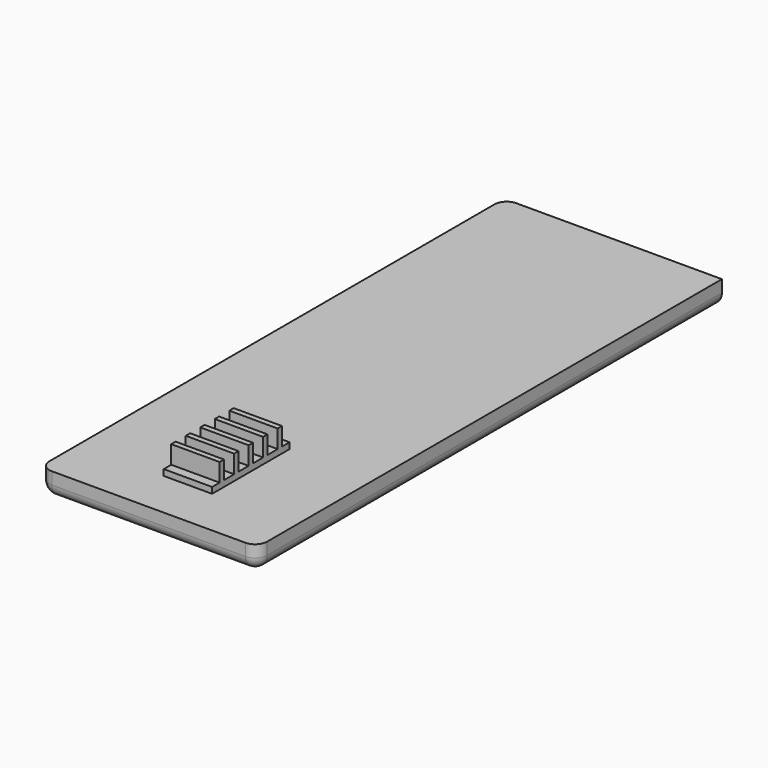
from build123d import *

# Parameters (mm, degrees)
F0_W     = 18
F0_H     = 48
F1_DEPTH = 2
F0_W_2   = 4
F0_H_2   = 0.775
F0_H_3   = 1.05
F2_DEPTH = 2.5
F0_H_4   = 0.45
F3_DEPTH = 4
F4_R     = 1


with BuildPart() as f1:
    # F0 (on Top) → F1 (new body)
    with BuildSketch(Plane.XY):
        with Locations((0, 16)):
            Rectangle(F0_W, F0_H)
        Polygon((2.04878, -3.225), (2.04878, -4), (-1.95122, -4), (-1.95122, -3.225), (-1.95122, -2.775), (-1.95122, -1.725), (-1.95122, -1.275), (-1.95122, -0.225), (-1.95122, 0), (-1.95122, 0.107463), (-1.95122, 0.225), (-1.95122, 1.275), (-1.95122, 1.725), (-1.95122, 2.775), (-1.95122, 3.225), (-1.95122, 4), (2.04878, 4), (2.04878, 3.225), (2.04878, 2.775), (2.04878, 1.725), (2.04878, 1.275), (2.04878, 0.225), (2.04878, -0.225), (2.04878, -1.275), (2.04878, -1.725), (2.04878, -2.775), align=None, mode=Mode.SUBTRACT)
    extrude(amount=F1_DEPTH)

    # F0 (on Top) → F2 (join)
    with BuildSketch(Plane.XY):
        with Locations((0.04878, -3.6125)):
            Rectangle(F0_W_2, F0_H_2)
        with Locations((0.04878, -2.25)):
            Rectangle(F0_W_2, F0_H_3)
        with Locations((0.04878, -0.75)):
            Rectangle(F0_W_2, F0_H_3)
        with Locations((0.04878, 0.75)):
            Rectangle(F0_W_2, F0_H_3)
        with Locations((0.04878, 2.25)):
            Rectangle(F0_W_2, F0_H_3)
        with Locations((0.04878, 3.6125)):
            Rectangle(F0_W_2, F0_H_2)
    extrude(amount=F2_DEPTH)

    # F0 (on Top) → F3 (join)
    with BuildSketch(Plane.XY):
        with Locations((0.04878, -3)):
            Rectangle(F0_W_2, F0_H_4)
        with Locations((0.04878, -1.5)):
            Rectangle(F0_W_2, F0_H_4)
        Polygon((-1.95122, -0.225), (2.04878, -0.225), (2.04878, 0.225), (-1.95122, 0.225), (-1.95122, 0.107463), (-1.95122, 0), align=None)
        with Locations((0.04878, 1.5)):
            Rectangle(F0_W_2, F0_H_4)
        with Locations((0.04878, 3)):
            Rectangle(F0_W_2, F0_H_4)
    extrude(amount=F3_DEPTH)

    # F4
    f4_edges = [f1.edges().sort_by_distance(p)[0] for p in [
        (9, 16, 0),
        (-9, 16, 0),
        (0, -8, 0),
        (-9, 40, 1),
        (9, -8, 1),
        (-9, -8, 1),
    ]]
    fillet(f4_edges, radius=F4_R)


solid = f1.part
